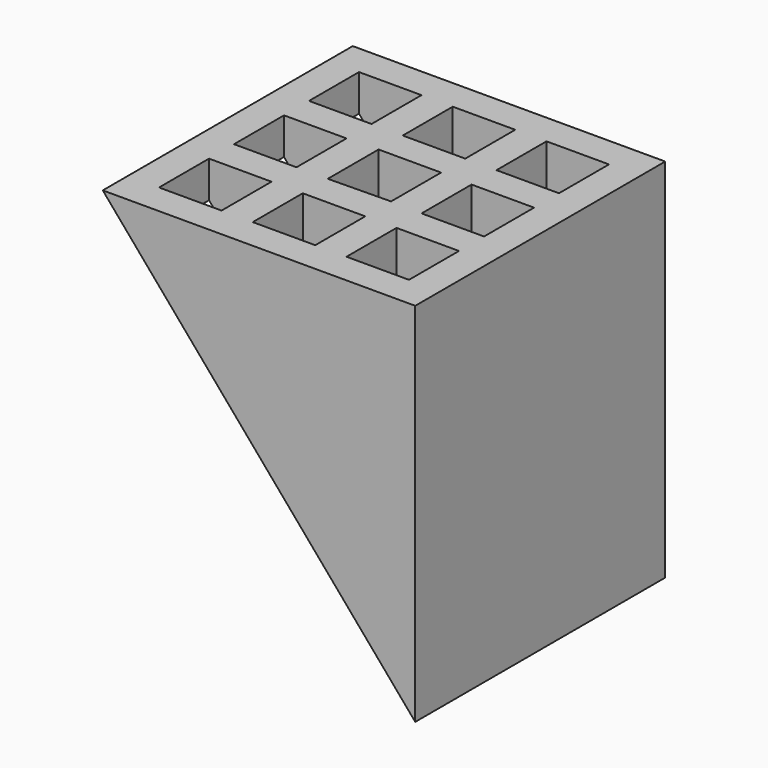
from build123d import *

# Parameters (mm, degrees)
F0_W     = 10
F0_H     = 10
F1_DEPTH = 577
F2_W     = 2
F2_H     = 2
F3_DEPTH = 577.001
F4_W     = 1.9998123646
F4_H     = 2
F4_W_2   = 2
F5_DEPTH = 577.001
F6_DEPTH = 500
F7_DEPTH = 65.276
F9_DEPTH = 10.001


with BuildPart() as f1:
    # F0 (on Top) → F1 (new body)
    with BuildSketch(Plane.XY):
        with Locations((-18.2401322573, 3.4046052024)):
            Rectangle(F0_W, F0_H)
    extrude(amount=F1_DEPTH)

    # F2 (on face) → F3 (cut, through all)
    with BuildSketch(Plane.XY.offset(577)):
        with Locations((-21.2401322573, 6.4046052024)):
            Rectangle(F2_W, F2_H)
        with Locations((-18.2401322573, 6.4046052024)):
            Rectangle(F2_W, F2_H)
        with Locations((-15.2401322573, 6.4046052024)):
            Rectangle(F2_W, F2_H)
        with Locations((-15.2401322573, 0.4046052024)):
            Rectangle(F2_W, F2_H)
        with Locations((-18.2401322573, 0.4046052024)):
            Rectangle(F2_W, F2_H)
        with Locations((-21.2401322573, 0.4046052024)):
            Rectangle(F2_W, F2_H)
    extrude(amount=-F3_DEPTH, mode=Mode.SUBTRACT)

    # F4 (on face) → F5 (cut, through all)
    with BuildSketch(Plane.XY.offset(577)):
        with Locations((-21.2402260751, 3.4046052024)):
            Rectangle(F4_W, F4_H)
        Polygon((-17.2403198928, 4.4376994483), (-19.2403198928, 4.4376994483), (-19.2403198928, 2.4046052024), (-17.2403198928, 2.4376994483), align=None)
        with Locations((-15.2403198928, 3.4074539542)):
            Rectangle(F4_W_2, F4_H)
    extrude(amount=-F5_DEPTH, mode=Mode.SUBTRACT)

    # F6 (cut): a face of the model
    f6_faces = [f1.faces().sort_by_distance(p)[0] for p in [
        (-13.3815536136, 3.4046052024, 577),
    ]]
    extrude(f6_faces, amount=-F6_DEPTH, mode=Mode.SUBTRACT)

    # F7 (cut): a face of the model
    f7_faces = [f1.faces().sort_by_distance(p)[0] for p in [
        (-13.3815536136, 3.4046052024, 77),
    ]]
    extrude(f7_faces, amount=-F7_DEPTH, mode=Mode.SUBTRACT)

    # F8 (on face) → F9 (cut, through all)
    with BuildSketch(Plane(origin=(0, 8.4046052024, 0), x_dir=(-1, 0, 0), z_dir=(0, 1, 0))):
        Polygon((23.2401322573, 0), (23.2401322573, 11.724), (13.2401322573, 0), align=None)
    extrude(amount=-F9_DEPTH, mode=Mode.SUBTRACT)


solid = f1.part
